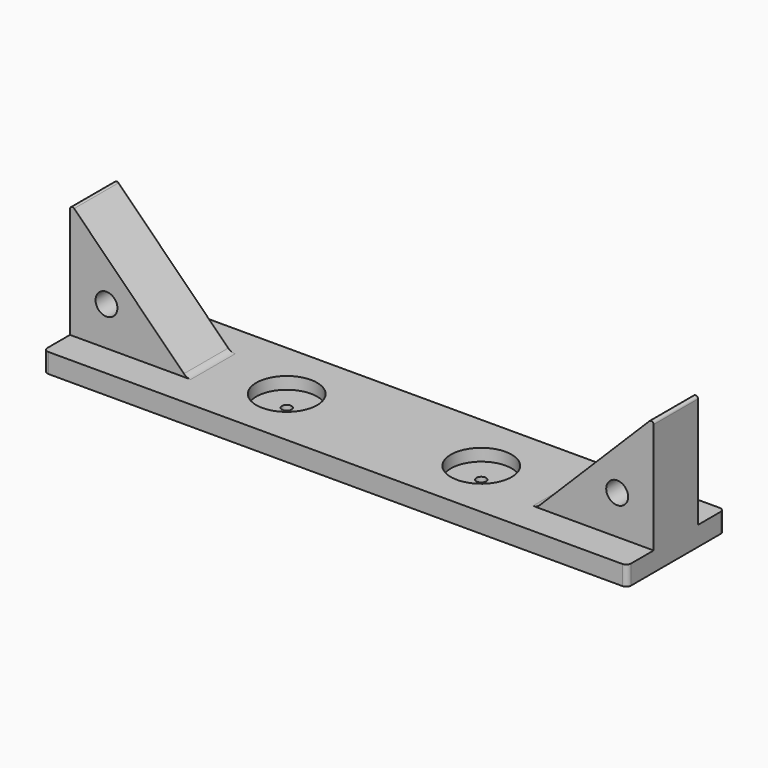
from build123d import *

# Parameters (mm, degrees)
SKETCH_W        = 120
SKETCH_H        = 25
PAD_DEPTH       = 4
SKETCH001_R     = 2.25
PAD001_DEPTH    = 5.7
FILLET_R        = 2
FILLET001_R     = 0.5
FILLET002_R     = 1
SKETCH002_R     = 6.25
POCKET_DEPTH    = 2.5
SKETCH003_R     = 1
POCKET001_DEPTH = 1.501


with BuildPart() as part:
    # Sketch → Pad (new body)
    with BuildSketch(Plane.XY):
        Rectangle(SKETCH_W, SKETCH_H)
    extrude(amount=PAD_DEPTH)

    # Sketch001 → Pad001 (join, symmetric)
    with BuildSketch(Plane.XZ):
        Polygon((-60, 4), (-60, 28), (-36, 4), align=None)
        with Locations((-52.5, 12)):
            Circle(SKETCH001_R, mode=Mode.SUBTRACT)
        Polygon((60, 4), (36, 4), (60, 28), align=None)
        with Locations((52.5, 12)):
            Circle(SKETCH001_R, mode=Mode.SUBTRACT)
    extrude(amount=PAD001_DEPTH, both=True)

    # Fillet
    fillet_edges = [part.edges().sort_by_distance(p)[0] for p in [
        (-36, 0, 4),
        (36, 0, 4),
    ]]
    fillet(fillet_edges, radius=FILLET_R)

    # Fillet001
    fillet001_edges = [part.edges().sort_by_distance(p)[0] for p in [
        (-60, 0, 28),
        (60, 0, 28),
    ]]
    fillet(fillet001_edges, radius=FILLET001_R)

    # Fillet002
    fillet002_edges = [part.edges().sort_by_distance(p)[0] for p in [
        (-60, 12.5, 2),
        (-60, -12.5, 2),
        (60, -12.5, 2),
        (60, 12.5, 2),
    ]]
    fillet(fillet002_edges, radius=FILLET002_R)

    # Sketch002 (on Face1 of Fillet002) → Pocket (cut)
    with BuildSketch(Plane.XY.offset(4)):
        with Locations((-20, 0)):
            Circle(SKETCH002_R)
        with Locations((20, 0)):
            Circle(SKETCH002_R)
    extrude(amount=-POCKET_DEPTH, mode=Mode.SUBTRACT)

    # Sketch003 (on Face27 of Pocket) → Pocket001 (cut, through all)
    with BuildSketch(Plane.XY.offset(1.5)):
        with Locations((-20, 0)):
            Circle(SKETCH003_R)
        with Locations((20, 0)):
            Circle(SKETCH003_R)
    extrude(amount=-POCKET001_DEPTH, mode=Mode.SUBTRACT)


solid = part.part
